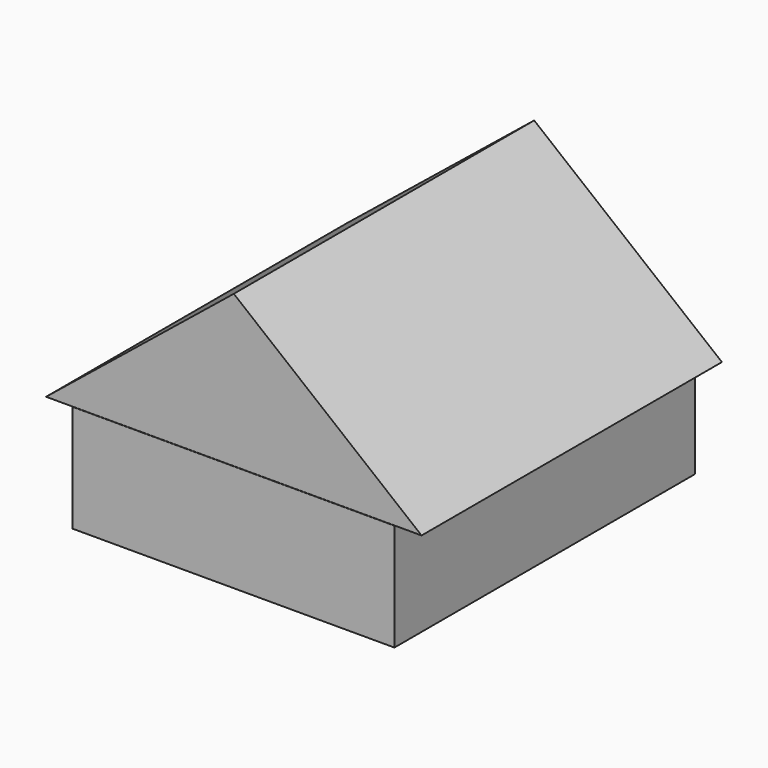
from build123d import *

# Parameters (mm, degrees)
F0_W     = 152.4
F0_H     = 50.8
F1_DEPTH = 76.2
F2_DEPTH = 88.9


with BuildPart() as f1:
    # F0 (on Front) → F1 (new body, symmetric)
    with BuildSketch(Plane.XZ):
        with Locations((-0.142164, 25.4)):
            Rectangle(F0_W, F0_H)
    extrude(amount=F1_DEPTH, both=True)

    # F0 (on Front) → F2 (join, symmetric)
    with BuildSketch(Plane.XZ):
        with Locations((-0.142164, 25.4)):
            Rectangle(F0_W, F0_H)
        Polygon((-88.9, 50.909862), (88.9, 50.909862), (0, 122.751911), align=None)
    extrude(amount=F2_DEPTH, both=True)


solid = f1.part
